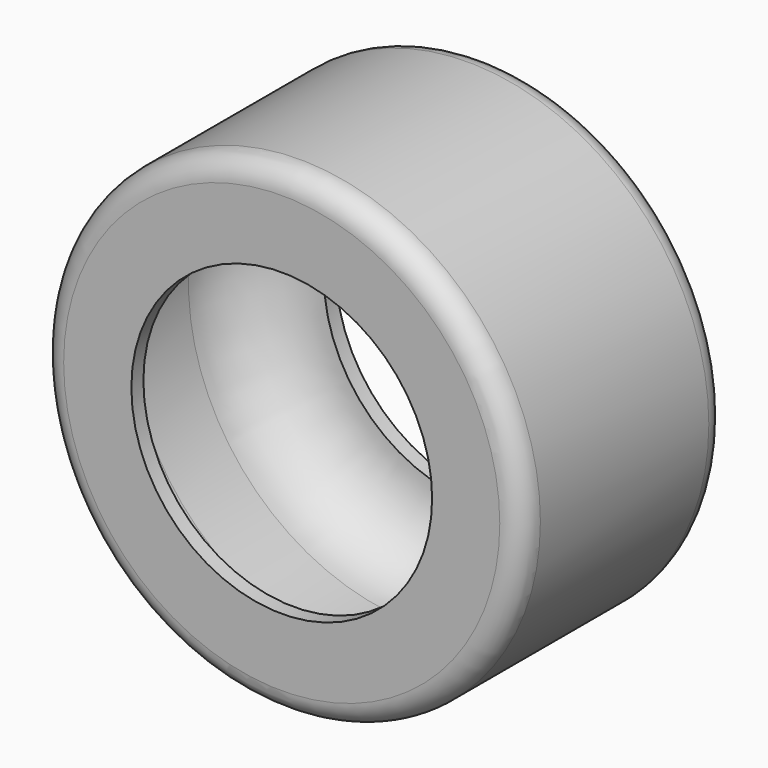
from build123d import *

# Parameters (mm, degrees)
CYLINDER014_R          = 1.7
CYLINDER014_DEPTH      = 31
CYLINDER014_ROLL_ANGLE = 90
CYLINDER012_R          = 30
CYLINDER012_DEPTH      = 30
CYLINDER012_ROLL_ANGLE = 90
CYLINDER013_R          = 10
CYLINDER013_DEPTH      = 31
CYLINDER013_ROLL_ANGLE = 90
FILLET004_R            = 10
CYLINDER016_R          = 20
CYLINDER016_DEPTH      = 34
CYLINDER016_ROLL_ANGLE = 90
CYLINDER015_R          = 32
CYLINDER015_DEPTH      = 34
CYLINDER015_ROLL_ANGLE = 90
FILLET005_R            = 3


with BuildPart() as cilindro014:
    # Cylinder014 → Cylinder014 (new body)
    with BuildSketch(Plane.XY):
        Circle(CYLINDER014_R)
    extrude(amount=CYLINDER014_DEPTH)


with BuildPart() as cilindro014_1:
    # Cylinder014 roll: moved
    add(cilindro014.part.rotate(Axis((0, 0, 0), (1, 0, 0)), CYLINDER014_ROLL_ANGLE))


with BuildPart() as cilindro014_2:
    # Cylinder014 placement: moved
    add(cilindro014_1.part.moved(Location((220, 89, -34.5))))


with BuildPart() as cilindro012:
    # Cylinder012 → Cylinder012 (new body)
    with BuildSketch(Plane.XY):
        Circle(CYLINDER012_R)
    extrude(amount=CYLINDER012_DEPTH)


with BuildPart() as cilindro012_1:
    # Cylinder012 roll: moved
    add(cilindro012.part.rotate(Axis((0, 0, 0), (1, 0, 0)), CYLINDER012_ROLL_ANGLE))


with BuildPart() as cilindro012_2:
    # Cylinder012 placement: moved
    add(cilindro012_1.part.moved(Location((220, 89, -34.5))))


with BuildPart() as clone_of_fillet004:
    # Cylinder013 → Cylinder013 (new body)
    with BuildSketch(Plane.XY):
        Circle(CYLINDER013_R)
    extrude(amount=CYLINDER013_DEPTH)


with BuildPart() as clone_of_fillet004_1:
    # Cylinder013 roll: moved
    add(clone_of_fillet004.part.rotate(Axis((0, 0, 0), (1, 0, 0)), CYLINDER013_ROLL_ANGLE))


with BuildPart() as clone_of_fillet004_2:
    # Cylinder013 placement: moved
    add(clone_of_fillet004_1.part.moved(Location((220, 89, -34.5))))

    # Fusion015: union Cilindro012
    add(cilindro012_2.part)

    # Cut008: cut Cilindro014
    add(cilindro014_2.part, mode=Mode.SUBTRACT)

    # Fillet004
    fillet004_edges = [clone_of_fillet004_2.edges().sort_by_distance(p)[0] for p in [
        (190, 59, -34.5),
        (190, 89, -34.5),
    ]]
    fillet(fillet004_edges, radius=FILLET004_R)


with BuildPart() as cilindro016:
    # Cylinder016 → Cylinder016 (new body)
    with BuildSketch(Plane.XY):
        Circle(CYLINDER016_R)
    extrude(amount=CYLINDER016_DEPTH)


with BuildPart() as cilindro016_1:
    # Cylinder016 roll: moved
    add(cilindro016.part.rotate(Axis((0, 0, 0), (1, 0, 0)), CYLINDER016_ROLL_ANGLE))


with BuildPart() as cilindro016_2:
    # Cylinder016 placement: moved
    add(cilindro016_1.part.moved(Location((220, 91, -34.5))))


with BuildPart() as fillet005:
    # Cylinder015 → Cylinder015 (new body)
    with BuildSketch(Plane.XY):
        Circle(CYLINDER015_R)
    extrude(amount=CYLINDER015_DEPTH)


with BuildPart() as fillet005_1:
    # Cylinder015 roll: moved
    add(fillet005.part.rotate(Axis((0, 0, 0), (1, 0, 0)), CYLINDER015_ROLL_ANGLE))


with BuildPart() as fillet005_2:
    # Cylinder015 placement: moved
    add(fillet005_1.part.moved(Location((220, 91, -34.5))))

    # Cut009: cut Cilindro016
    add(cilindro016_2.part, mode=Mode.SUBTRACT)

    # Cut010: cut Clone of Fillet004
    add(clone_of_fillet004_2.part, mode=Mode.SUBTRACT)

    # Fillet005
    fillet005_edges = [fillet005_2.edges().sort_by_distance(p)[0] for p in [
        (188, 57, -34.5),
        (188, 91, -34.5),
    ]]
    fillet(fillet005_edges, radius=FILLET005_R)


with BuildPart() as part_mirroring002:
    # Part__Mirroring002: instance of Fillet005
    add(fillet005_2.part.mirror(Plane(origin=(0, 0, 0), x_dir=(1, 0, 0), z_dir=(0, 1, 0))))


solid = part_mirroring002.part
